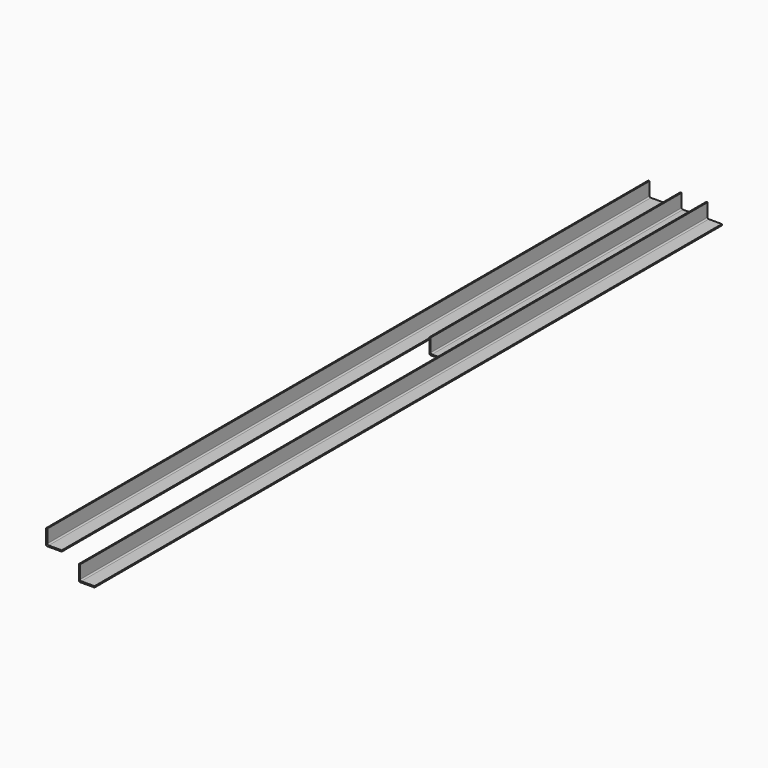
from build123d import *

# Parameters (mm, degrees)
F1_DEPTH = 500
F3_DEPTH = 1250
F5_DEPTH = 1200


with BuildPart() as f1:
    # F0 (on Front) → F1 (new body)
    with BuildSketch(Plane.XZ):
        with BuildLine():
            Line((0, 25), (0, 2))
            ThreePointArc((0, 2), (0.585786, 0.585786), (2, 0))
            Line((2, 0), (25, 0))
            Line((25, 0), (25, 2))
            Line((25, 2), (4, 2))
            ThreePointArc((4, 2), (2.585786, 2.585786), (2, 4))
            Line((2, 4), (2, 25))
            Line((2, 25), (0, 25))
        make_face()
    extrude(amount=F1_DEPTH)


with BuildPart() as f3:
    # F2 (on Front) → F3 (new body)
    with BuildSketch(Plane.XZ):
        with BuildLine():
            Line((41.215283, 25), (41.215283, 2))
            ThreePointArc((41.215283, 2), (41.801069, 0.585786), (43.215283, 0))
            Line((43.215283, 0), (66.215283, 0))
            Line((66.215283, 0), (66.215283, 2))
            Line((66.215283, 2), (45.215283, 2))
            ThreePointArc((45.215283, 2), (43.801069, 2.585786), (43.215283, 4))
            Line((43.215283, 4), (43.215283, 25))
            Line((43.215283, 25), (41.215283, 25))
        make_face()
    extrude(amount=F3_DEPTH)


with BuildPart() as f5:
    # F4 (on Front) → F5 (new body)
    with BuildSketch(Plane.XZ):
        with BuildLine():
            Line((-51.002225, 25), (-51.002225, 2))
            ThreePointArc((-51.002225, 2), (-50.416438, 0.585786), (-49.002225, 0))
            Line((-49.002225, 0), (-26.002225, 0))
            Line((-26.002225, 0), (-26.002225, 2))
            Line((-26.002225, 2), (-47.002225, 2))
            ThreePointArc((-47.002225, 2), (-48.416438, 2.585786), (-49.002225, 4))
            Line((-49.002225, 4), (-49.002225, 25))
            Line((-49.002225, 25), (-51.002225, 25))
        make_face()
    extrude(amount=F5_DEPTH)


solid = Compound([f1.part, f3.part, f5.part])
